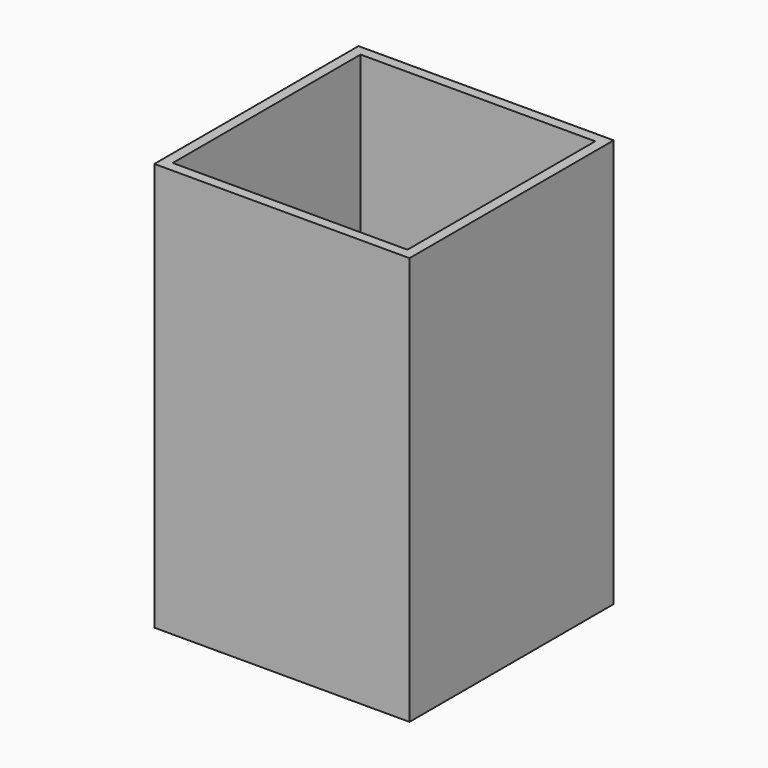
from build123d import *

# Parameters (mm, degrees)
BOX001_W     = 46
BOX001_H     = 46
BOX001_DEPTH = 78
BOX_W        = 50
BOX_H        = 50
BOX_DEPTH    = 80


with BuildPart() as obj1:
    # Box001 → Box001 (new body)
    with BuildSketch(Plane(origin=(2, 2, 2), x_dir=(1, 0, 0), z_dir=(0, 0, 1))):
        with Locations((23, 23)):
            Rectangle(BOX001_W, BOX001_H)
    extrude(amount=BOX001_DEPTH)


with BuildPart() as cut:
    # Box → Box (new body)
    with BuildSketch(Plane.XY):
        with Locations((25, 25)):
            Rectangle(BOX_W, BOX_H)
    extrude(amount=BOX_DEPTH)

    # Cut: cut obj1
    add(obj1.part, mode=Mode.SUBTRACT)


solid = cut.part
